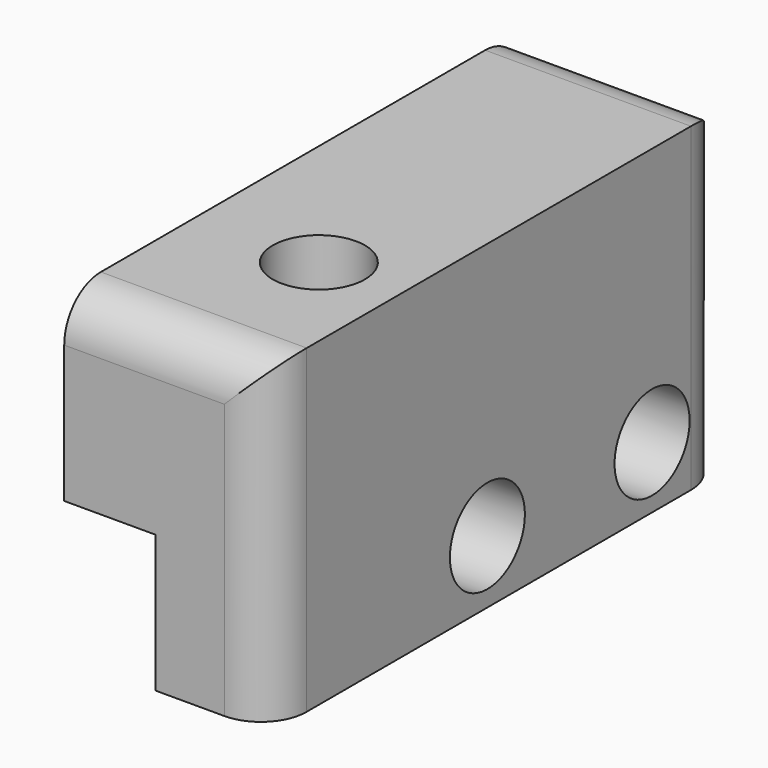
from build123d import *

# Parameters (mm, degrees)
F1_DEPTH      = 50
F2_R          = 2
F3_DEPTH      = 25
F4_R          = 4.03
F5_DEPTH      = 28.8
F5_DEPTH_BACK = 25
F2_R_2        = 4.1
F6_DEPTH      = 7
F7_R          = 4


with BuildPart() as f1:
    # F0 (on Front) → F1 (new body)
    with BuildSketch(Plane.XZ):
        Polygon((0, 12), (0, 0), (10, 0), (10, 28), (-8, 28), (-8, 12), align=None)
    extrude(amount=F1_DEPTH)

    # F2 (on face) → F3 (cut)
    with BuildSketch(Plane.YZ.offset(10)):
        with Locations((-26.25, 5.513248)):
            Circle(F2_R)
        with Locations((-8.25, 5.4)):
            Circle(F2_R)
    extrude(amount=-F3_DEPTH, mode=Mode.SUBTRACT)

    # F4 (on Top) → F5 (cut, two sides)
    with BuildSketch(Plane.XY) as f5_sk:
        with Locations((2.73504, -35.590066)):
            Circle(F4_R)
    extrude(amount=F5_DEPTH, mode=Mode.SUBTRACT)
    extrude(f5_sk.sketch, amount=-F5_DEPTH_BACK, mode=Mode.SUBTRACT)

    # F2 (on face) → F6 (cut, symmetric)
    with BuildSketch(Plane.YZ.offset(10)):
        with Locations((-26.25, 5.513248)):
            Circle(F2_R_2)
        with Locations((-26.25, 5.513248)):
            Circle(F2_R, mode=Mode.SUBTRACT)
        with Locations((-8.25, 5.4)):
            Circle(F2_R_2)
        with Locations((-8.25, 5.4)):
            Circle(F2_R, mode=Mode.SUBTRACT)
    extrude(amount=F6_DEPTH, both=True, mode=Mode.SUBTRACT)

    # F7
    f7_edges = [f1.edges().sort_by_distance(p)[0] for p in [
        (1, -50, 28),
        (1, 0, 28),
        (10, -50, 14),
        (10, 0, 14),
    ]]
    fillet(f7_edges, radius=F7_R)


solid = f1.part
